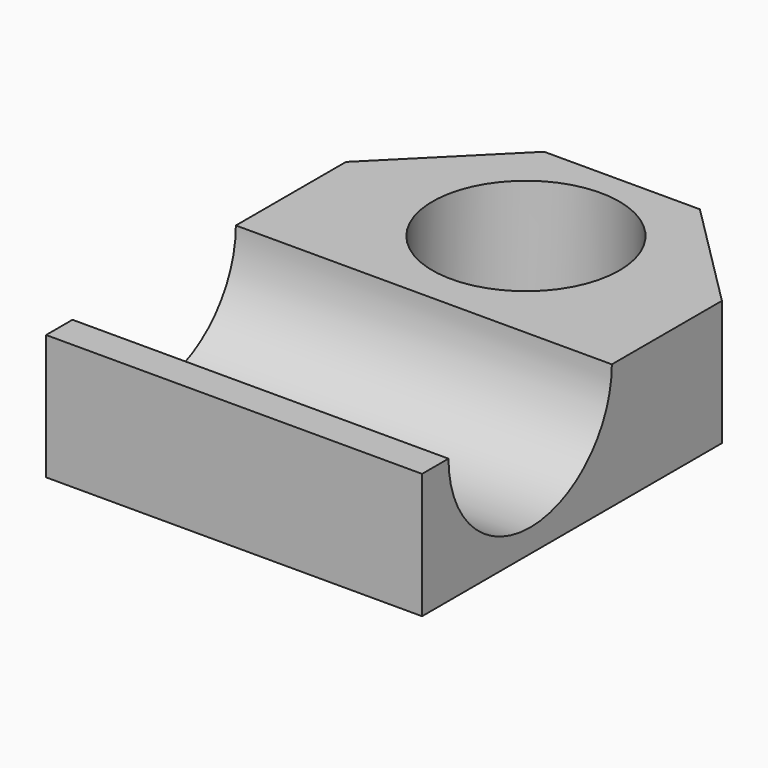
from build123d import *

# Parameters (mm, degrees)
F0_R     = 9.467994
F1_DEPTH = 6.35
F3_DEPTH = 38.1


with BuildPart() as f1:
    # F0 (on Top) → F1 (new body, symmetric)
    with BuildSketch(Plane.XY):
        Polygon((7.890768, 49.13805), (-7.890768, 49.13805), (-19.05, 37.978819), (-19.05, 30.08805), (-19.05, 0), (19.05, 0), (19.05, 30.08805), (19.05, 37.978819), align=None)
        with Locations((0, 36.965959)):
            Circle(F0_R, mode=Mode.SUBTRACT)
    extrude(amount=F1_DEPTH, both=True)

    # F2 (on face) → F3 (cut)
    with BuildSketch(Plane.YZ.offset(19.05)):
        with BuildLine():
            Line((24.037136, 6.35), (3.344474, 6.35))
            ThreePointArc((3.344474, 6.35), (13.690805, -3.996331), (24.037136, 6.35))
        make_face()
    extrude(amount=-F3_DEPTH, mode=Mode.SUBTRACT)


solid = f1.part
